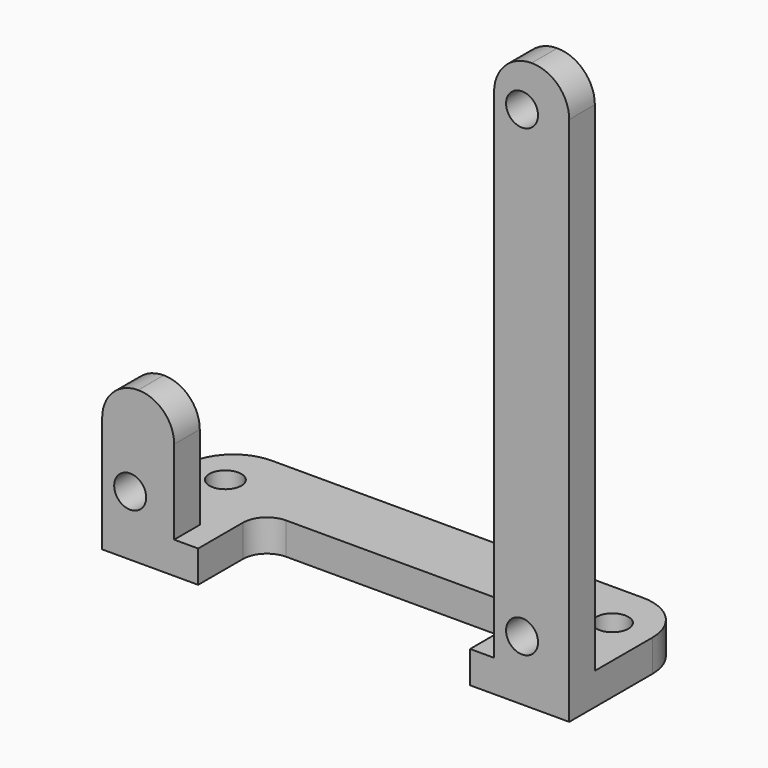
from build123d import *

# Parameters (mm, degrees)
CYLINDER393_R     = 2
CYLINDER393_DEPTH = 16
CYLINDER395_R     = 2
CYLINDER395_DEPTH = 16
CYLINDER394_R     = 2
CYLINDER394_DEPTH = 16
BOX490_W          = 34
BOX490_H          = 10
BOX490_DEPTH      = 7
FILLET028_R       = 3
BOX489_W          = 58.4
BOX489_H          = 19
BOX489_DEPTH      = 4
FILLET029_R       = 6
CYLINDER384_R     = 2
CYLINDER384_DEPTH = 10
CYLINDER385_R     = 2
CYLINDER385_DEPTH = 10
BOX482_W          = 9.4
BOX482_H          = 4
BOX482_DEPTH      = 67
FILLET025_R       = 4.69
CYLINDER386_R     = 2
CYLINDER386_DEPTH = 10
BOX480_W          = 9
BOX480_H          = 4
BOX480_DEPTH      = 15
FILLET024_R       = 4.49


with BuildPart() as cylinder393:
    # Cylinder393 → Cylinder393 (new body)
    with BuildSketch(Plane(origin=(-9.8, 51, -5), x_dir=(1, 0, 0), z_dir=(0, 0, 1))):
        Circle(CYLINDER393_R)
    extrude(amount=CYLINDER393_DEPTH)


with BuildPart() as cylinder395:
    # Cylinder395 → Cylinder395 (new body)
    with BuildSketch(Plane(origin=(-58.2, 51, -5), x_dir=(1, 0, 0), z_dir=(0, 0, 1))):
        Circle(CYLINDER395_R)
    extrude(amount=CYLINDER395_DEPTH)


with BuildPart() as fusion386:
    # Cylinder394 → Cylinder394 (new body)
    with BuildSketch(Plane(origin=(-9.8, 51, -5), x_dir=(1, 0, 0), z_dir=(0, 0, 1))):
        Circle(CYLINDER394_R)
    extrude(amount=CYLINDER394_DEPTH)

    # Fusion386: union Cylinder393, Cylinder395
    add(cylinder393.part)
    add(cylinder395.part)


with BuildPart() as fillet028:
    # Box490 → Box490 (new body)
    with BuildSketch(Plane(origin=(-51.2, 38, 0), x_dir=(1, 0, 0), z_dir=(0, 0, 1))):
        with Locations((17, 5)):
            Rectangle(BOX490_W, BOX490_H)
    extrude(amount=BOX490_DEPTH)

    # Fillet028
    fillet028_edges = [fillet028.edges().sort_by_distance(p)[0] for p in [
        (-51.2, 48, 3.5),
        (-17.2, 48, 3.5),
    ]]
    fillet(fillet028_edges, radius=FILLET028_R)


with BuildPart() as fillet029:
    # Box489 → Box489 (new body)
    with BuildSketch(Plane(origin=(-63.2, 38, 3), x_dir=(1, 0, 0), z_dir=(0, 0, 1))):
        with Locations((29.2, 9.5)):
            Rectangle(BOX489_W, BOX489_H)
    extrude(amount=BOX489_DEPTH)

    # Cut421: cut Fillet028
    add(fillet028.part, mode=Mode.SUBTRACT)

    # Cut422: cut Fusion386
    add(fusion386.part, mode=Mode.SUBTRACT)

    # Fillet029
    fillet029_edges = [fillet029.edges().sort_by_distance(p)[0] for p in [
        (-63.2, 57, 5),
        (-4.8, 57, 5),
    ]]
    fillet(fillet029_edges, radius=FILLET029_R)


with BuildPart() as cylinder384:
    # Cylinder384 → Cylinder384 (new body)
    with BuildSketch(Plane(origin=(-10.7, 44, 10.5), x_dir=(1, 0, 0), z_dir=(0, -1, 0))):
        Circle(CYLINDER384_R)
    extrude(amount=CYLINDER384_DEPTH)


with BuildPart() as fusion379:
    # Cylinder385 → Cylinder385 (new body)
    with BuildSketch(Plane(origin=(-10.7, 44, 68.5), x_dir=(1, 0, 0), z_dir=(0, -1, 0))):
        Circle(CYLINDER385_R)
    extrude(amount=CYLINDER385_DEPTH)

    # Fusion379: union Cylinder384
    add(cylinder384.part)


with BuildPart() as fillet025:
    # Box482 → Box482 (new body)
    with BuildSketch(Plane(origin=(-14.2, 38, 7), x_dir=(1, 0, 0), z_dir=(0, 0, 1))):
        with Locations((4.7, 2)):
            Rectangle(BOX482_W, BOX482_H)
    extrude(amount=BOX482_DEPTH)

    # Cut417: cut Fusion379
    add(fusion379.part, mode=Mode.SUBTRACT)

    # Fillet025
    fillet025_edges = [fillet025.edges().sort_by_distance(p)[0] for p in [
        (-14.2, 40, 74),
        (-4.8, 40, 74),
    ]]
    fillet(fillet025_edges, radius=FILLET025_R)


with BuildPart() as cylinder386:
    # Cylinder386 → Cylinder386 (new body)
    with BuildSketch(Plane(origin=(-59.7, 44, 10.5), x_dir=(1, 0, 0), z_dir=(0, -1, 0))):
        Circle(CYLINDER386_R)
    extrude(amount=CYLINDER386_DEPTH)


with BuildPart() as fusion388:
    # Box480 → Box480 (new body)
    with BuildSketch(Plane(origin=(-63.2, 38, 7), x_dir=(1, 0, 0), z_dir=(0, 0, 1))):
        with Locations((4.5, 2)):
            Rectangle(BOX480_W, BOX480_H)
    extrude(amount=BOX480_DEPTH)

    # Cut418: cut Cylinder386
    add(cylinder386.part, mode=Mode.SUBTRACT)

    # Fillet024
    fillet024_edges = [fusion388.edges().sort_by_distance(p)[0] for p in [
        (-63.2, 40, 22),
        (-54.2, 40, 22),
    ]]
    fillet(fillet024_edges, radius=FILLET024_R)

    # Fusion388: union Fillet029, Fillet025
    add(fillet029.part)
    add(fillet025.part)


solid = fusion388.part
